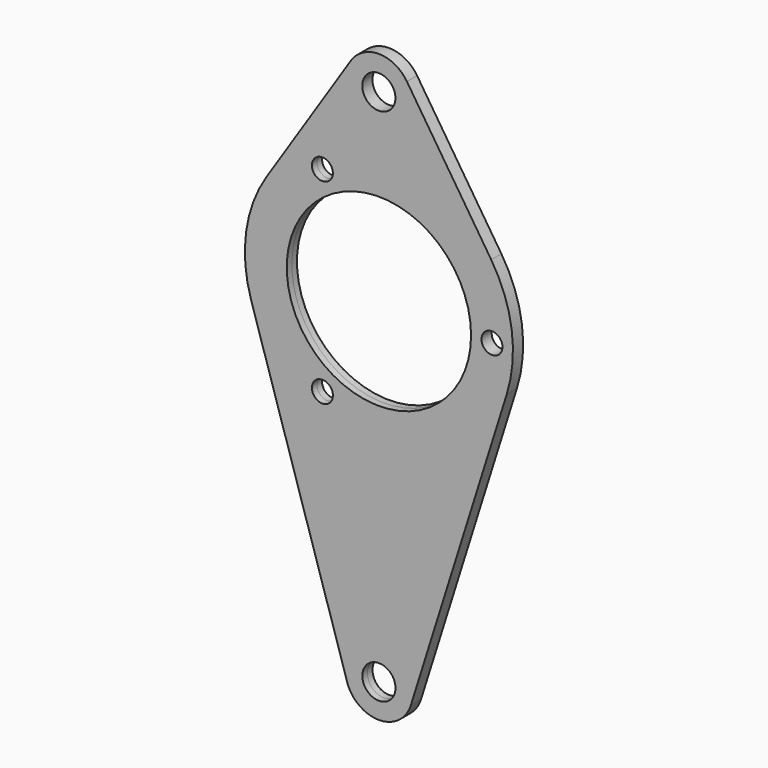
from build123d import *

# Parameters (mm, degrees)
F0_R     = 6.2865
F0_R_2   = 3.96875
F1_DEPTH = 2.413


with BuildPart() as f1:
    # F0 (on Front) → F1 (new body, symmetric)
    with BuildSketch(Plane.XZ):
        with BuildLine():
            Line((42.5662135777, 27.7264758246), (10.6130252204, 76.7816189562))
            ThreePointArc((10.6130252204, 76.7816189562), (-0.0337151144, 82.5499989408), (-10.6757400484, 76.7729241873))
            Line((-10.6757400484, 76.7729241873), (-42.5888474972, 27.6916967494))
            ThreePointArc((-42.5888474972, 27.6916967494), (-50.3329211177, 6.8729216323), (-48.4538530673, -15.259886072))
            Line((-48.4538530673, -15.259886072), (-12.4032720404, -129.7292568021))
            ThreePointArc((-12.4032720404, -129.7292568021), (-0.5592607997, -139.6876801409), (12.115027858, -130.81))
            Line((12.115027858, -130.81), (48.460111432, -15.24))
            ThreePointArc((48.460111432, -15.24), (50.3286943243, 6.9038052992), (42.5662135777, 27.7264758246))
        make_face()
        with Locations((0, -127)):
            Circle(F0_R, mode=Mode.SUBTRACT)
        with BuildLine():
            ThreePointArc((-17.4467922904, -37.1038058412), (-24.8644298729, -39.0913558412), (-19.4343422904, -33.6612682586))
            ThreePointArc((-19.4343422904, -33.6612682586), (-17.9793547078, -35.1162558412), (-17.4467922904, -37.1038058412))
        make_face(mode=Mode.SUBTRACT)
        with BuildLine():
            ThreePointArc((-17.4625, -30.2459372272), (-34.925, 0), (-17.4625, 30.2459372272))
            ThreePointArc((-17.4625, 30.2459372272), (17.4625, 30.2459372272), (34.925, 0))
            ThreePointArc((34.925, 0), (17.4625, -30.2459372272), (-17.4625, -30.2459372272))
        make_face(mode=Mode.SUBTRACT)
        with BuildLine():
            ThreePointArc((-19.4343422904, 33.6612682586), (-24.8644298729, 39.0913558412), (-17.4467922904, 37.1038058412))
            ThreePointArc((-17.4467922904, 37.1038058412), (-17.9793547078, 35.1162558412), (-19.4343422904, 33.6612682586))
        make_face(mode=Mode.SUBTRACT)
        with Locations((-0.0285281741, 69.85)):
            Circle(F0_R, mode=Mode.SUBTRACT)
        with Locations((42.8498, 0)):
            Circle(F0_R_2, mode=Mode.SUBTRACT)
    extrude(amount=F1_DEPTH, both=True)


solid = f1.part
